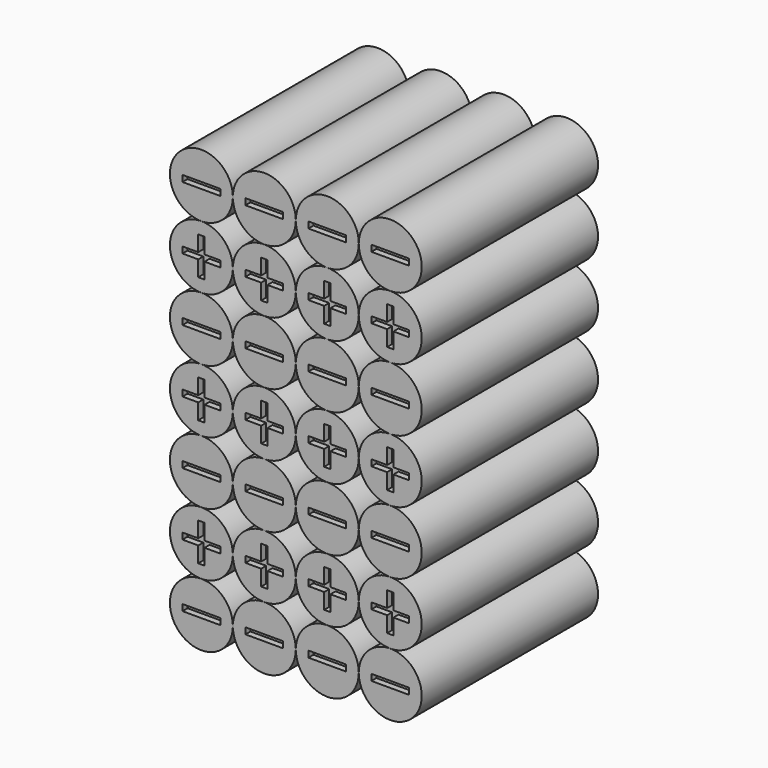
from build123d import *

# Parameters (mm, degrees)
F0_R     = 9.9995
F1_DEPTH = 70
F2_W     = 12
F2_H     = 2
F3_DEPTH = 2
F4_W     = 12
F4_H     = 2
F5_DEPTH = 2


with BuildPart() as f1:
    # F0 (on Front) → F1 (new body)
    with BuildSketch(Plane.XZ):
        with Locations((10, 10)):
            Circle(F0_R)
        with Locations((30, 10)):
            Circle(F0_R)
        with Locations((50, 10)):
            Circle(F0_R)
        with Locations((70, 10)):
            Circle(F0_R)
        with Locations((10, 30)):
            Circle(F0_R)
        with Locations((30, 30)):
            Circle(F0_R)
        with Locations((50, 30)):
            Circle(F0_R)
        with Locations((70, 30)):
            Circle(F0_R)
        with Locations((10, 50)):
            Circle(F0_R)
        with Locations((30, 50)):
            Circle(F0_R)
        with Locations((50, 50)):
            Circle(F0_R)
        with Locations((70, 50)):
            Circle(F0_R)
        with Locations((10, 70)):
            Circle(F0_R)
        with Locations((30, 70)):
            Circle(F0_R)
        with Locations((50, 70)):
            Circle(F0_R)
        with Locations((70, 70)):
            Circle(F0_R)
        with Locations((10, 90)):
            Circle(F0_R)
        with Locations((30, 90)):
            Circle(F0_R)
        with Locations((50, 90)):
            Circle(F0_R)
        with Locations((70, 90)):
            Circle(F0_R)
        with Locations((10, 110)):
            Circle(F0_R)
        with Locations((30, 110)):
            Circle(F0_R)
        with Locations((50, 110)):
            Circle(F0_R)
        with Locations((70, 110)):
            Circle(F0_R)
        with Locations((10, 130)):
            Circle(F0_R)
        with Locations((30, 130)):
            Circle(F0_R)
        with Locations((50, 130)):
            Circle(F0_R)
        with Locations((70, 130)):
            Circle(F0_R)
    extrude(amount=F1_DEPTH)

    # F2 (on face) → F3 (cut)
    with BuildSketch(Plane(origin=(0, 0, 0), x_dir=(-1, 0, 0), z_dir=(0, 1, 0))):
        Polygon((-69, 16), (-71, 16), (-71, 11), (-76, 11), (-76, 9), (-71, 9), (-71, 4), (-69, 4), (-69, 9), (-64, 9), (-64, 11), (-69, 11), align=None)
        Polygon((-9, 16), (-11, 16), (-11, 11), (-16, 11), (-16, 9), (-11, 9), (-11, 4), (-9, 4), (-9, 9), (-4, 9), (-4, 11), (-9, 11), align=None)
        Polygon((-29, 16), (-31, 16), (-31, 11), (-36, 11), (-36, 9), (-31, 9), (-31, 4), (-29, 4), (-29, 9), (-24, 9), (-24, 11), (-29, 11), align=None)
        Polygon((-49, 16), (-51, 16), (-51, 11), (-56, 11), (-56, 9), (-51, 9), (-51, 4), (-49, 4), (-49, 9), (-44, 9), (-44, 11), (-49, 11), align=None)
        Polygon((-69, 56), (-71, 56), (-71, 51), (-76, 51), (-76, 49), (-71, 49), (-71, 44), (-69, 44), (-69, 49), (-64, 49), (-64, 51), (-69, 51), align=None)
        Polygon((-9, 56), (-11, 56), (-11, 51), (-16, 51), (-16, 49), (-11, 49), (-11, 44), (-9, 44), (-9, 49), (-4, 49), (-4, 51), (-9, 51), align=None)
        Polygon((-29, 56), (-31, 56), (-31, 51), (-36, 51), (-36, 49), (-31, 49), (-31, 44), (-29, 44), (-29, 49), (-24, 49), (-24, 51), (-29, 51), align=None)
        Polygon((-49, 56), (-51, 56), (-51, 51), (-56, 51), (-56, 49), (-51, 49), (-51, 44), (-49, 44), (-49, 49), (-44, 49), (-44, 51), (-49, 51), align=None)
        Polygon((-69, 96), (-71, 96), (-71, 91), (-76, 91), (-76, 89), (-71, 89), (-71, 84), (-69, 84), (-69, 89), (-64, 89), (-64, 91), (-69, 91), align=None)
        Polygon((-9, 96), (-11, 96), (-11, 91), (-16, 91), (-16, 89), (-11, 89), (-11, 84), (-9, 84), (-9, 89), (-4, 89), (-4, 91), (-9, 91), align=None)
        Polygon((-29, 96), (-31, 96), (-31, 91), (-36, 91), (-36, 89), (-31, 89), (-31, 84), (-29, 84), (-29, 89), (-24, 89), (-24, 91), (-29, 91), align=None)
        Polygon((-49, 96), (-51, 96), (-51, 91), (-56, 91), (-56, 89), (-51, 89), (-51, 84), (-49, 84), (-49, 89), (-44, 89), (-44, 91), (-49, 91), align=None)
        Polygon((-69, 136), (-71, 136), (-71, 131), (-76, 131), (-76, 129), (-71, 129), (-71, 124), (-69, 124), (-69, 129), (-64, 129), (-64, 131), (-69, 131), align=None)
        Polygon((-9, 136), (-11, 136), (-11, 131), (-16, 131), (-16, 129), (-11, 129), (-11, 124), (-9, 124), (-9, 129), (-4, 129), (-4, 131), (-9, 131), align=None)
        Polygon((-29, 136), (-31, 136), (-31, 131), (-36, 131), (-36, 129), (-31, 129), (-31, 124), (-29, 124), (-29, 129), (-24, 129), (-24, 131), (-29, 131), align=None)
        Polygon((-49, 136), (-51, 136), (-51, 131), (-56, 131), (-56, 129), (-51, 129), (-51, 124), (-49, 124), (-49, 129), (-44, 129), (-44, 131), (-49, 131), align=None)
        with Locations((-70, 30)):
            Rectangle(F2_W, F2_H)
        with Locations((-50, 30)):
            Rectangle(F2_W, F2_H)
        with Locations((-30, 30)):
            Rectangle(F2_W, F2_H)
        with Locations((-10, 30)):
            Rectangle(F2_W, F2_H)
        with Locations((-70, 70)):
            Rectangle(F2_W, F2_H)
        with Locations((-50, 70)):
            Rectangle(F2_W, F2_H)
        with Locations((-30, 70)):
            Rectangle(F2_W, F2_H)
        with Locations((-10, 70)):
            Rectangle(F2_W, F2_H)
        with Locations((-70, 110)):
            Rectangle(F2_W, F2_H)
        with Locations((-50, 110)):
            Rectangle(F2_W, F2_H)
        with Locations((-30, 110)):
            Rectangle(F2_W, F2_H)
        with Locations((-10, 110)):
            Rectangle(F2_W, F2_H)
    extrude(amount=-F3_DEPTH, mode=Mode.SUBTRACT)

    # F4 (on face) → F5 (cut)
    with BuildSketch(Plane.XZ.offset(70)):
        Polygon((11, 36), (9, 36), (9, 31), (4, 31), (4, 29), (9, 29), (9, 24), (11, 24), (11, 29), (16, 29), (16, 31), (11, 31), align=None)
        Polygon((31, 36), (29, 36), (29, 31), (24, 31), (24, 29), (29, 29), (29, 24), (31, 24), (31, 29), (36, 29), (36, 31), (31, 31), align=None)
        Polygon((71, 36), (69, 36), (69, 31), (64, 31), (64, 29), (69, 29), (69, 24), (71, 24), (71, 29), (76, 29), (76, 31), (71, 31), align=None)
        Polygon((51, 36), (49, 36), (49, 31), (44, 31), (44, 29), (49, 29), (49, 24), (51, 24), (51, 29), (56, 29), (56, 31), (51, 31), align=None)
        Polygon((11, 76), (9, 76), (9, 71), (4, 71), (4, 69), (9, 69), (9, 64), (11, 64), (11, 69), (16, 69), (16, 71), (11, 71), align=None)
        Polygon((31, 76), (29, 76), (29, 71), (24, 71), (24, 69), (29, 69), (29, 64), (31, 64), (31, 69), (36, 69), (36, 71), (31, 71), align=None)
        Polygon((71, 76), (69, 76), (69, 71), (64, 71), (64, 69), (69, 69), (69, 64), (71, 64), (71, 69), (76, 69), (76, 71), (71, 71), align=None)
        Polygon((51, 76), (49, 76), (49, 71), (44, 71), (44, 69), (49, 69), (49, 64), (51, 64), (51, 69), (56, 69), (56, 71), (51, 71), align=None)
        Polygon((11, 116), (9, 116), (9, 111), (4, 111), (4, 109), (9, 109), (9, 104), (11, 104), (11, 109), (16, 109), (16, 111), (11, 111), align=None)
        Polygon((31, 116), (29, 116), (29, 111), (24, 111), (24, 109), (29, 109), (29, 104), (31, 104), (31, 109), (36, 109), (36, 111), (31, 111), align=None)
        Polygon((71, 116), (69, 116), (69, 111), (64, 111), (64, 109), (69, 109), (69, 104), (71, 104), (71, 109), (76, 109), (76, 111), (71, 111), align=None)
        Polygon((51, 116), (49, 116), (49, 111), (44, 111), (44, 109), (49, 109), (49, 104), (51, 104), (51, 109), (56, 109), (56, 111), (51, 111), align=None)
        with Locations((10, 50)):
            Rectangle(F4_W, F4_H)
        with Locations((30, 50)):
            Rectangle(F4_W, F4_H)
        with Locations((50, 50)):
            Rectangle(F4_W, F4_H)
        with Locations((70, 50)):
            Rectangle(F4_W, F4_H)
        with Locations((10, 90)):
            Rectangle(F4_W, F4_H)
        with Locations((30, 90)):
            Rectangle(F4_W, F4_H)
        with Locations((50, 90)):
            Rectangle(F4_W, F4_H)
        with Locations((70, 90)):
            Rectangle(F4_W, F4_H)
        with Locations((10, 130)):
            Rectangle(F4_W, F4_H)
        with Locations((30, 130)):
            Rectangle(F4_W, F4_H)
        with Locations((50, 130)):
            Rectangle(F4_W, F4_H)
        with Locations((70, 130)):
            Rectangle(F4_W, F4_H)
        with Locations((10, 10)):
            Rectangle(F4_W, F4_H)
        with Locations((30, 10)):
            Rectangle(F4_W, F4_H)
        with Locations((50, 10)):
            Rectangle(F4_W, F4_H)
        with Locations((70, 10)):
            Rectangle(F4_W, F4_H)
    extrude(amount=-F5_DEPTH, mode=Mode.SUBTRACT)


solid = f1.part
